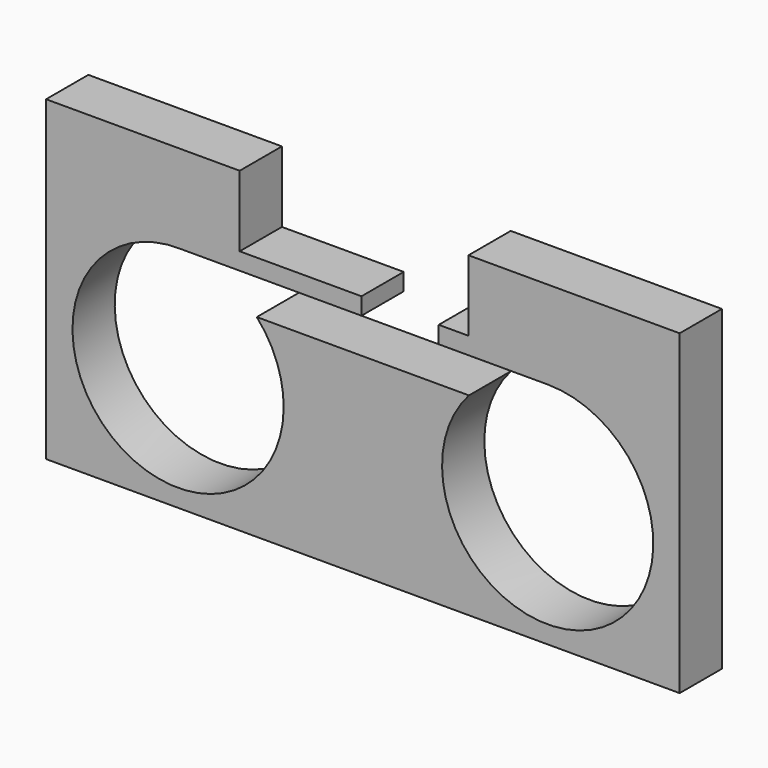
from build123d import *

# Parameters (mm, degrees)
F0_W     = 228.6
F0_H     = 114.3
F1_DEPTH = 19.05
F2_R     = 38.1
F3_DEPTH = 25.4
F5_DEPTH = 25.4


with BuildPart() as f1:
    # F0 (on Front) → F1 (new body)
    with BuildSketch(Plane.XZ):
        with Locations((114.3, 57.15)):
            Rectangle(F0_W, F0_H)
    extrude(amount=F1_DEPTH)

    # F2 (on face) → F3 (cut)
    with BuildSketch(Plane.XZ.offset(19.05)):
        with Locations((47.625, 44.45)):
            Circle(F2_R)
        with Locations((180.975, 44.45)):
            Circle(F2_R)
    extrude(amount=-F3_DEPTH, mode=Mode.SUBTRACT)

    # F4 (on face) → F5 (cut)
    with BuildSketch(Plane.XZ.offset(19.05)):
        with BuildLine():
            ThreePointArc((152.571006, 69.843368), (165.414963, 79.227798), (180.971239, 82.55))
            Line((180.971239, 82.55), (141.666685, 82.54612))
            Line((141.666685, 82.54612), (141.666075, 88.724122))
            Line((141.666075, 88.724122), (152.4, 88.725182))
            Line((152.4, 88.725182), (152.4, 114.3))
            Line((152.4, 114.3), (69.85, 114.3))
            Line((69.85, 114.3), (69.852526, 88.717033))
            Line((69.852526, 88.717033), (113.794894, 88.721371))
            Line((113.794894, 88.721371), (113.795504, 82.543368))
            Line((113.795504, 82.543368), (48.622711, 82.536934))
            ThreePointArc((48.622711, 82.536934), (63.637392, 79.021857), (76.028994, 69.843368))
            Line((76.028994, 69.843368), (152.571006, 69.843368))
        make_face()
    extrude(amount=-F5_DEPTH, mode=Mode.SUBTRACT)


solid = f1.part
